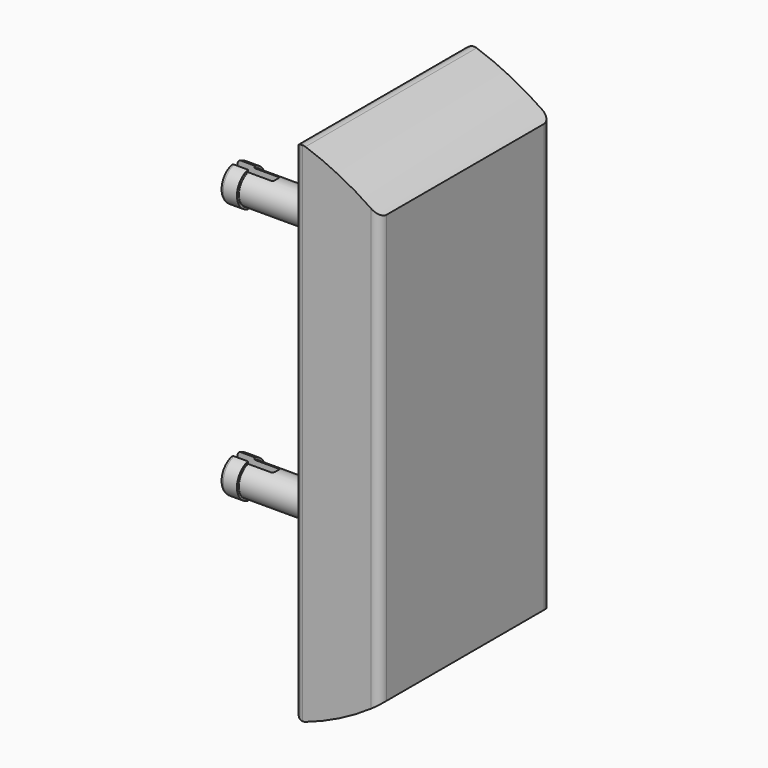
from build123d import *

# Parameters (mm, degrees)
PAD_DEPTH       = 25
SKETCH002_R     = 1.85
PAD002_DEPTH    = 15
FILLET_R        = 1
FILLET001_R     = 1
SKETCH004_R     = 2.1
PAD003_DEPTH    = 2
FILLET004_R     = 0.05
FILLET005_R     = 0.4
SKETCH007_W     = 37.33329
SKETCH007_H     = 1
POCKET002_DEPTH = 5
FILLET009_R     = 0.3


with BuildPart() as part:
    # Sketch → Pad (new body)
    with BuildSketch(Plane.XZ):
        with BuildLine():
            Line((0, -25), (0, 25))
            ThreePointArc((0, 25), (-4.774575, 27.95085), (-10, 30))
            Line((-10, -30), (-10, 30))
            ThreePointArc((-10, -30), (-4.774575, -27.95085), (0, -25))
        make_face()
    extrude(amount=PAD_DEPTH)

    # Sketch002 (on Face4 of Pad) → Pad002 (join)
    with BuildSketch(Plane(origin=(-10, 0, 0), x_dir=(0, 0, -1), z_dir=(-1, 0, 0))):
        with Locations((-15, 12.5)):
            Circle(SKETCH002_R)
        with Locations((15, 12.5)):
            Circle(SKETCH002_R)
    extrude(amount=PAD002_DEPTH)

    # Fillet
    fillet_edges = [part.edges().sort_by_distance(p)[0] for p in [
        (-10, -12.5, 30),
        (-10, -25, 0),
        (-10, 0, 0),
        (-10, -12.5, -30),
    ]]
    fillet(fillet_edges, radius=FILLET_R)

    # Fillet001
    fillet001_edges = [part.edges().sort_by_distance(p)[0] for p in [
        (0, 0, 0),
        (0, -25, 0),
    ]]
    fillet(fillet001_edges, radius=FILLET001_R)

    # Sketch004 (on Face16 of Fillet001) → Pad003 (join)
    with BuildSketch(Plane(origin=(-25, 0, 0), x_dir=(0, 0, -1), z_dir=(-1, 0, 0))):
        with Locations((15, 12.5)):
            Circle(SKETCH004_R)
        with Locations((-15, 12.5)):
            Circle(SKETCH004_R)
    extrude(amount=PAD003_DEPTH)

    # Fillet004
    fillet004_edges = [part.edges().sort_by_distance(p)[0] for p in [
        (-25, -12.5, -13.15),
        (-25, -12.5, 16.85),
    ]]
    fillet(fillet004_edges, radius=FILLET004_R)

    # Fillet005
    fillet005_edges = [part.edges().sort_by_distance(p)[0] for p in [
        (-27, -12.5, -12.9),
        (-27, -12.5, 17.1),
    ]]
    fillet(fillet005_edges, radius=FILLET005_R)

    # Sketch007 (on Face24 of Fillet005) → Pocket002 (cut)
    with BuildSketch(Plane(origin=(-27, 0, 0), x_dir=(0, 0, -1), z_dir=(-1, 0, 0))):
        with Locations((0.43578, 12.5)):
            Rectangle(SKETCH007_W, SKETCH007_H)
    extrude(amount=-POCKET002_DEPTH, mode=Mode.SUBTRACT)

    # Fillet009
    fillet009_edges = [part.edges().sort_by_distance(p)[0] for p in [
        (-22, -12, 15),
        (-22, -13, 15),
        (-22, -13, -15),
        (-22, -12, -15),
    ]]
    fillet(fillet009_edges, radius=FILLET009_R)


solid = part.part
